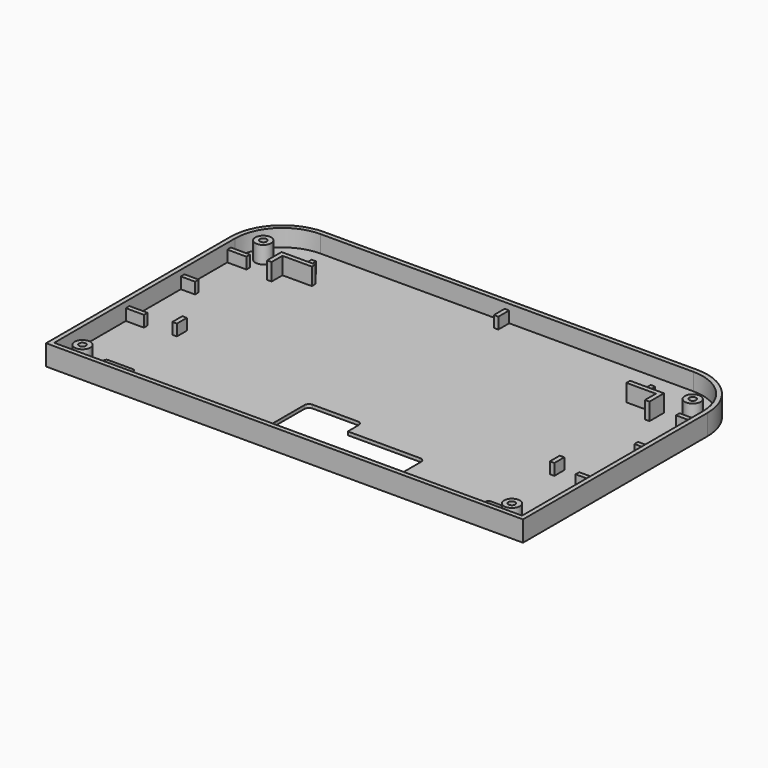
from build123d import *

# Parameters (mm, degrees)
SKETCH004_W      = 8.5
SKETCH004_H      = 2
SKETCH004_W_2    = 8
SKETCH004_W_3    = 2
SKETCH004_H_2    = 5.5
SKETCH004_H_3    = 6
SKETCH004_W_4    = 6.4
EXTRUDE001_DEPTH = 5
SKETCH002_R      = 1.5
PAD001_DEPTH     = 1.5
SKETCH003_R      = 3.5
SKETCH003_R_2    = 1.5
EXTRUDE_DEPTH    = 7.6


with BuildPart() as extrude001:
    # Sketch004 → Extrude001 (new body)
    with BuildSketch(Plane.XY):
        with Locations((-99.25, 46.7)):
            Rectangle(SKETCH004_W, SKETCH004_H)
        with Locations((99.25, 46.7)):
            Rectangle(SKETCH004_W, SKETCH004_H)
        with Locations((-99.5, -9.4)):
            Rectangle(SKETCH004_W_2, SKETCH004_H)
        with Locations((-83.5, -5.65)):
            Rectangle(SKETCH004_W_3, SKETCH004_H_2)
        with Locations((99.5, -9.4)):
            Rectangle(SKETCH004_W_2, SKETCH004_H)
        with Locations((83.5, -5.65)):
            Rectangle(SKETCH004_W_3, SKETCH004_H_2)
        with Locations((-75, 55)):
            Rectangle(SKETCH004_W_3, SKETCH004_H_3)
        with Locations((75, 55)):
            Rectangle(SKETCH004_W_3, SKETCH004_H_3)
        with Locations((-100.4, 21)):
            Rectangle(SKETCH004_W_4, SKETCH004_H)
        with Locations((100.4, 21)):
            Rectangle(SKETCH004_W_4, SKETCH004_H)
        with Locations((0, 68)):
            Rectangle(SKETCH004_W_3, SKETCH004_H_3)
    extrude(amount=EXTRUDE001_DEPTH)


with BuildPart() as body:
    # Sketch002 → Pad001 (new body)
    with BuildSketch(Plane.XY):
        with BuildLine():
            Line((-105.5, -52), (105.5, -52))
            Line((105.5, -52), (105.5, 50))
            ThreePointArc((105.5, 50), (98.763456, 66.263456), (82.5, 73))
            Line((-82.5, 73), (82.5, 73))
            ThreePointArc((-82.5, 73), (-98.763456, 66.263456), (-105.5, 50))
            Line((-105.5, -52), (-105.5, 50))
        make_face()
        with Locations((-95, -45)):
            Circle(SKETCH002_R, mode=Mode.SUBTRACT)
        with Locations((95, -45)):
            Circle(SKETCH002_R, mode=Mode.SUBTRACT)
        with BuildLine():
            Line((-14, -19.000009), (6, -19.000009))
            ThreePointArc((8, -21.000009), (7.414214, -19.585795), (6, -19.000009))
            Line((8, -21.000009), (8, -27.000009))
            Line((40, -27.000009), (8, -27.000009))
            ThreePointArc((42, -29.000009), (41.414214, -27.585795), (40, -27.000009))
            Line((42, -29.000009), (42, -50.000009))
            Line((24, -50.000009), (42, -50.000009))
            Line((24, -44.000009), (24, -50.000009))
            ThreePointArc((24, -44.000009), (23.414217, -42.58579), (22, -42))
            Line((22, -42), (9, -42))
            ThreePointArc((9, -42), (7.585783, -42.58579), (7, -44.000009))
            Line((7, -44.000009), (7, -50.000009))
            Line((-16, -50.000009), (7, -50.000009))
            Line((-16, -50.000009), (-16, -21.000009))
            ThreePointArc((-14, -19.000009), (-15.414214, -19.585795), (-16, -21.000009))
        make_face(mode=Mode.SUBTRACT)
        with BuildLine():
            ThreePointArc((-90, -37), (-90.707107, -37.292893), (-91, -38))
            Line((-91, -49), (-91, -38))
            ThreePointArc((-91, -49), (-90.707107, -49.707107), (-90, -50))
            Line((-79, -50), (-90, -50))
            ThreePointArc((-79, -50), (-78.292893, -49.707107), (-78, -49))
            Line((-78, -38), (-78, -49))
            ThreePointArc((-78, -38), (-78.292893, -37.292893), (-79, -37))
            Line((-90, -37), (-79, -37))
        make_face(mode=Mode.SUBTRACT)
        with BuildLine():
            ThreePointArc((91, -38), (90.707107, -37.292893), (90, -37))
            Line((90, -37), (79, -37))
            ThreePointArc((79, -37), (78.292893, -37.292893), (78, -38))
            Line((78, -38), (78, -49))
            ThreePointArc((78, -49), (78.292893, -49.707107), (79, -50))
            Line((79, -50), (90, -50))
            ThreePointArc((90, -50), (90.707107, -49.707107), (91, -49))
            Line((91, -49), (91, -38))
        make_face(mode=Mode.SUBTRACT)
    extrude(amount=-PAD001_DEPTH)


with BuildPart() as main:
    # Sketch003 → Extrude (new body)
    with BuildSketch(Plane.XY):
        with BuildLine():
            Line((-105.5, -52), (105.5, -52))
            Line((105.5, -52), (105.5, 50))
            ThreePointArc((105.5, 50), (98.763456, 66.263456), (82.5, 73))
            Line((-82.5, 73), (82.5, 73))
            ThreePointArc((-82.5, 73), (-98.763456, 66.263456), (-105.5, 50))
            Line((-105.5, -52), (-105.5, 50))
        make_face()
        with BuildLine():
            Line((-103.5, -50), (103.5, -50))
            Line((103.5, -50), (103.5, 50))
            ThreePointArc((103.5, 50), (97.349242, 64.849242), (82.5, 71))
            Line((-82.5, 71), (82.5, 71))
            ThreePointArc((-82.5, 71), (-97.349242, 64.849242), (-103.5, 50))
            Line((-103.5, -50), (-103.5, 50))
        make_face(mode=Mode.SUBTRACT)
        with Locations((-95, -45)):
            Circle(SKETCH003_R)
        with Locations((-95, -45)):
            Circle(SKETCH003_R_2, mode=Mode.SUBTRACT)
        with Locations((95, -45)):
            Circle(SKETCH003_R)
        with Locations((95, -45)):
            Circle(SKETCH003_R_2, mode=Mode.SUBTRACT)
        with Locations((-95, 55)):
            Circle(SKETCH003_R)
        with Locations((-95, 55)):
            Circle(SKETCH003_R_2, mode=Mode.SUBTRACT)
        with Locations((95, 55)):
            Circle(SKETCH003_R)
        with Locations((95, 55)):
            Circle(SKETCH003_R_2, mode=Mode.SUBTRACT)
        Polygon((-84.6, 44.1), (-82.6, 44.1), (-82.6, 50.1), (-69.6, 50.1), (-69.6, 52.1), (-84.6, 52.1), align=None)
        Polygon((84.6, 44.1), (82.6, 44.1), (82.6, 50.1), (69.6, 50.1), (69.6, 52.1), (84.6, 52.1), align=None)
    extrude(amount=EXTRUDE_DEPTH)

    # Fusion: union Body
    add(body.part)

    # Fusion001: union Extrude001
    add(extrude001.part)


solid = main.part
